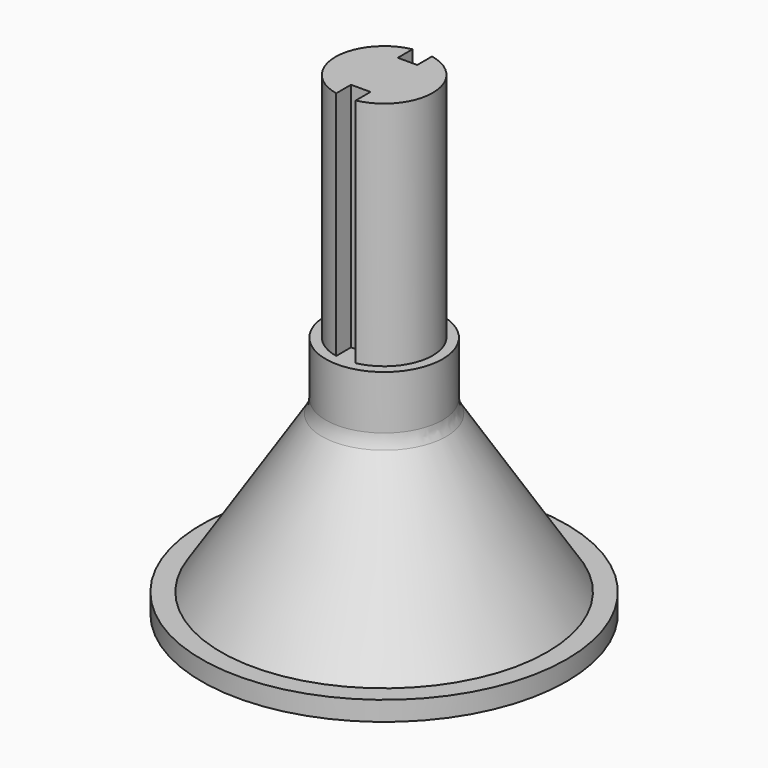
from build123d import *

# Parameters (mm, degrees)
F0_W     = 6.096
F0_H     = 6.35
F2_R     = 5.08
F3_DEPTH = 24.13
F4_R     = 2.54
F5_W     = 2.032
F5_H     = 2.54
F6_DEPTH = 24.13


with BuildPart() as f1:
    # F0 (on Front) → F1 (revolve)
    with BuildSketch(Plane.XZ):
        Polygon((0, 19.05), (0, 0), (19.05, 0), (19.05, 2.032), (17.018, 2.032), (6.096, 19.05), align=None)
        with Locations((3.048, 22.225)):
            Rectangle(F0_W, F0_H)
    revolve(axis=Axis((0, 0, 9.525), (0, 0, 1)))

    # F2 (on face) → F3 (join)
    with BuildSketch(Plane.XY.offset(25.4)):
        Circle(F2_R)
    extrude(amount=F3_DEPTH)

    # F4
    f4_edges = [f1.edges().sort_by_distance(p)[0] for p in [
        (-6.096, 0, 19.05),
    ]]
    fillet(f4_edges, radius=F4_R)

    # F5 (on face) → F6 (cut)
    with BuildSketch(Plane.XY.offset(49.53)):
        with Locations((0, 4.318)):
            Rectangle(F5_W, F5_H)
        with Locations((0, -4.318)):
            Rectangle(F5_W, F5_H)
    extrude(amount=-F6_DEPTH, mode=Mode.SUBTRACT)


solid = f1.part
